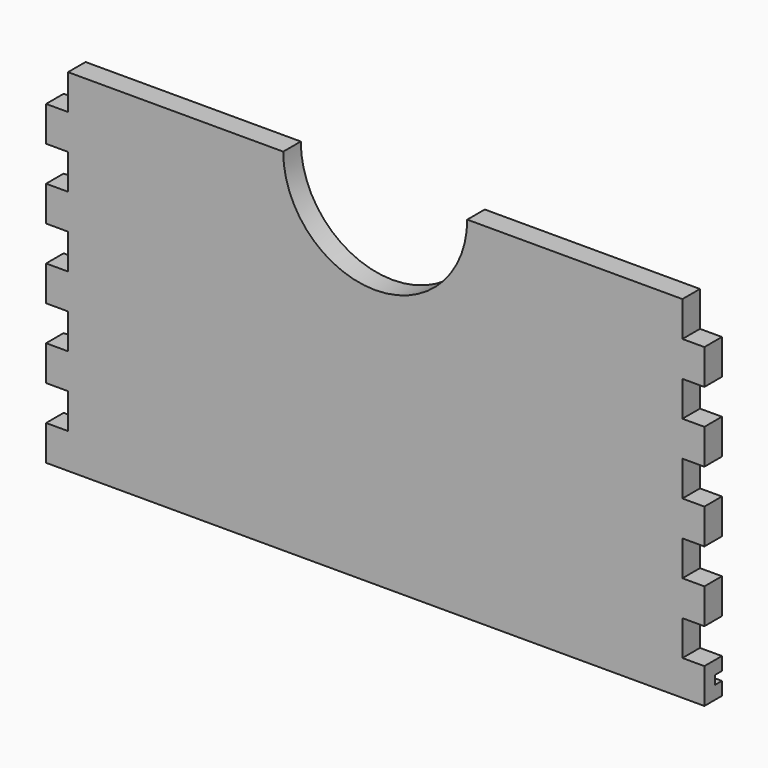
from build123d import *

# Parameters (mm, degrees)
F2_DEPTH = 5
F3_W     = 2
F3_H     = 2
F4_DEPTH = 150.001


with BuildPart() as f2:
    # F1 (on Front) → F2 (new body)
    with BuildSketch(Plane.XZ):
        with BuildLine():
            ThreePointArc((20.9641661495, 0), (0, -20.9641661495), (-20.9641661495, 0))
            Line((-20.9641661495, 0), (-70, 0))
            Line((-70, 0), (-70, -8))
            Line((-70, -8), (-75, -8))
            Line((-75, -8), (-75, -16))
            Line((-75, -16), (-70, -16))
            Line((-70, -16), (-70, -24))
            Line((-70, -24), (-75, -24))
            Line((-75, -24), (-75, -32))
            Line((-75, -32), (-70, -32))
            Line((-70, -32), (-70, -40))
            Line((-70, -40), (-75, -40))
            Line((-75, -40), (-75, -48))
            Line((-75, -48), (-70, -48))
            Line((-70, -48), (-70, -56))
            Line((-70, -56), (-75, -56))
            Line((-75, -56), (-75, -64))
            Line((-75, -64), (-70, -64))
            Line((-70, -64), (-70, -72))
            Line((-70, -72), (-75, -72))
            Line((-75, -72), (-75, -80))
            Line((-75, -80), (75, -80))
            Line((75, -80), (75, -72))
            Line((75, -72), (70, -72))
            Line((70, -72), (70, -64))
            Line((70, -64), (75, -64))
            Line((75, -64), (75, -56))
            Line((75, -56), (70, -56))
            Line((70, -56), (70, -48))
            Line((70, -48), (75, -48))
            Line((75, -48), (75, -40))
            Line((75, -40), (70, -40))
            Line((70, -40), (70, -32))
            Line((70, -32), (75, -32))
            Line((75, -32), (75, -24))
            Line((75, -24), (70, -24))
            Line((70, -24), (70, -16))
            Line((70, -16), (75, -16))
            Line((75, -16), (75, -8))
            Line((75, -8), (70, -8))
            Line((70, -8), (70, 0))
            Line((70, 0), (20.9641661495, 0))
        make_face()
    extrude(amount=F2_DEPTH)

    # F3 (on face) → F4 (cut, through all)
    with BuildSketch(Plane.YZ.offset(75)):
        with Locations((-1, -76)):
            Rectangle(F3_W, F3_H)
    extrude(amount=-F4_DEPTH, mode=Mode.SUBTRACT)


solid = f2.part
